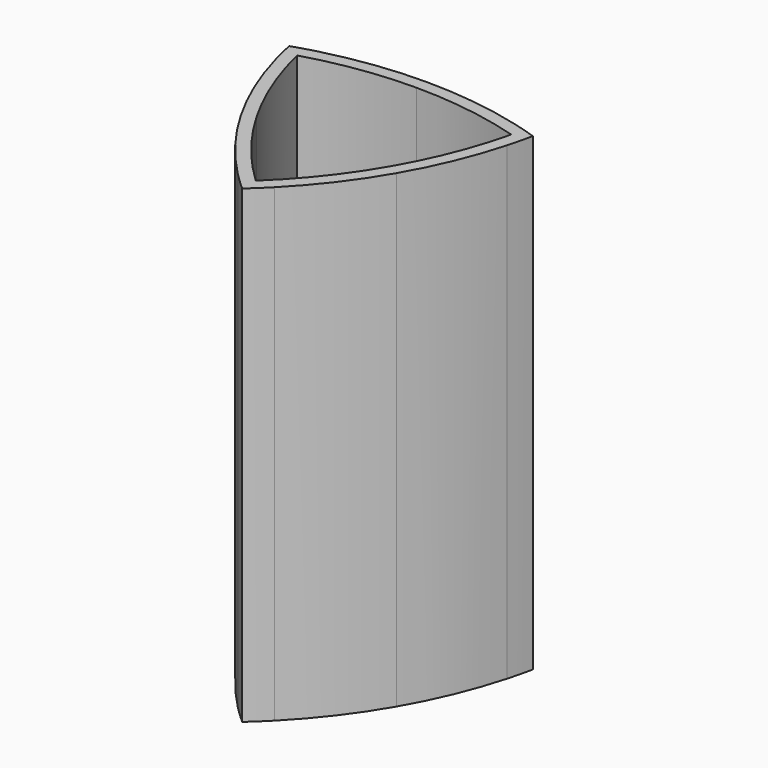
from build123d import *

# Parameters (mm, degrees)
F1_DEPTH = 30


with BuildPart() as f1:
    # F0 (on Top) → F1 (new body)
    with BuildSketch(Plane.XY):
        with BuildLine():
            Line((-6.235864, 4.95), (0, 4.95))
            Line((0, 4.95), (6.235864, 4.95))
            ThreePointArc((6.235864, 4.95), (3.143485, 5.549184), (0, 5.75))
            ThreePointArc((0, 5.75), (-3.143485, 5.549184), (-6.235864, 4.95))
        make_face()
        with BuildLine():
            Line((-7.404758, 2.925417), (-4.286826, -2.475))
            ThreePointArc((-4.286826, -2.475), (-5.797749, 0.644639), (-6.841601, 3.95))
            ThreePointArc((-6.841601, 3.95), (-3.457148, 4.698679), (0, 4.95))
            Line((0, 4.95), (-6.235864, 4.95))
            ThreePointArc((-6.235864, 4.95), (-7.012294, 4.733863), (-7.781261, 4.492513))
            ThreePointArc((-7.781261, 4.492513), (-7.605792, 3.705894), (-7.404758, 2.925417))
        make_face()
        with BuildLine():
            ThreePointArc((6.841601, 3.95), (5.797749, 0.644639), (4.286826, -2.475))
            Line((4.286826, -2.475), (7.404758, 2.925417))
            ThreePointArc((7.404758, 2.925417), (7.605792, 3.705894), (7.781261, 4.492513))
            ThreePointArc((7.781261, 4.492513), (7.012294, 4.733863), (6.235864, 4.95))
            Line((6.235864, 4.95), (0, 4.95))
            ThreePointArc((0, 4.95), (3.457148, 4.698679), (6.841601, 3.95))
        make_face()
        with BuildLine():
            Line((-4.286826, -2.475), (-1.168894, -7.875417))
            ThreePointArc((-1.168894, -7.875417), (-0.593498, -8.439756), (0, -8.985026))
            ThreePointArc((0, -8.985026), (0.593498, -8.439756), (1.168894, -7.875417))
            Line((1.168894, -7.875417), (4.286826, -2.475))
            ThreePointArc((4.286826, -2.475), (2.340601, -5.343318), (0, -7.9))
            ThreePointArc((0, -7.9), (-2.340601, -5.343318), (-4.286826, -2.475))
        make_face()
        with BuildLine():
            ThreePointArc((-4.979646, -2.875), (-3.233991, -5.49693), (-1.168894, -7.875417))
            Line((-1.168894, -7.875417), (-4.286826, -2.475))
            Line((-4.286826, -2.475), (-7.404758, 2.925417))
            ThreePointArc((-7.404758, 2.925417), (-6.377477, -0.052254), (-4.979646, -2.875))
        make_face()
        with BuildLine():
            Line((4.286826, -2.475), (1.168894, -7.875417))
            ThreePointArc((1.168894, -7.875417), (3.233991, -5.49693), (4.979646, -2.875))
            ThreePointArc((4.979646, -2.875), (6.377477, -0.052254), (7.404758, 2.925417))
            Line((7.404758, 2.925417), (4.286826, -2.475))
        make_face()
    extrude(amount=F1_DEPTH)


solid = f1.part
